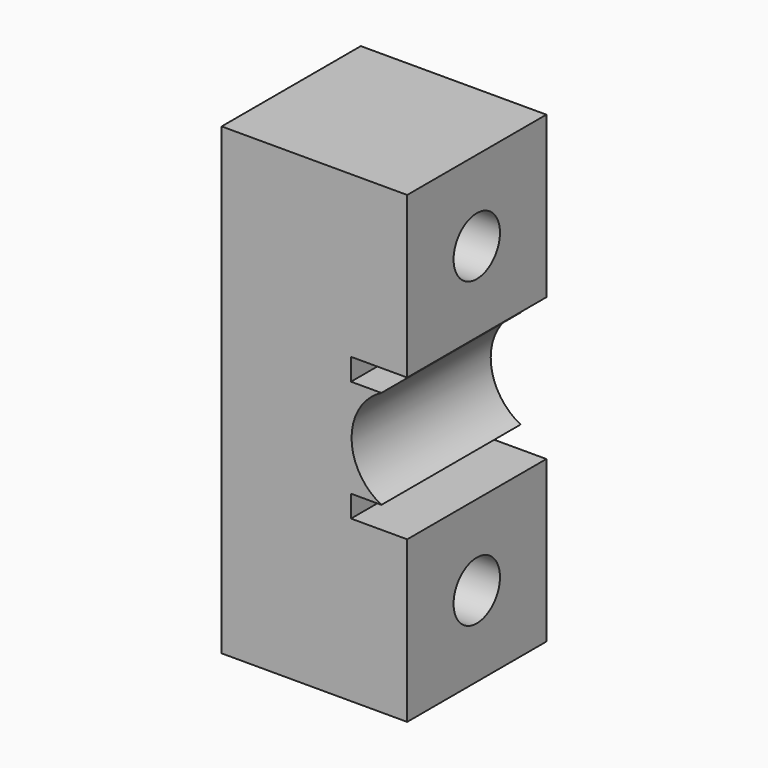
from build123d import *

# Parameters (mm, degrees)
F1_DEPTH = 9.525
F2_R     = 3.175
F3_DEPTH = 25.4


with BuildPart() as f1:
    # F0 (on Front) → F1 (new body, symmetric)
    with BuildSketch(Plane.XZ):
        with BuildLine():
            Line((4.007829, 5.3975), (4.007829, 7.7975))
            Line((4.007829, 7.7975), (10.16, 7.7975))
            Line((10.16, 7.7975), (10.16, 25.4))
            Line((10.16, 25.4), (-10.16, 25.4))
            Line((-10.16, 25.4), (-10.16, -25.4))
            Line((-10.16, -25.4), (10.16, -25.4))
            Line((10.16, -25.4), (10.16, -7.7975))
            Line((10.16, -7.7975), (4.007829, -7.7975))
            Line((4.007829, -7.7975), (4.007829, -5.3975))
            Line((4.007829, -5.3975), (7.334133, -5.3975))
            ThreePointArc((7.334133, -5.3975), (4.067502, 0.000618), (7.335229, 5.398074))
            Line((7.335229, 5.398074), (4.007829, 5.3975))
        make_face()
    extrude(amount=F1_DEPTH, both=True)

    # F2 (on face) → F3 (cut)
    with BuildSketch(Plane(origin=(-10.16, 0, 0), x_dir=(0, -1, 0), z_dir=(-1, 0, 0))):
        with Locations((0, 16.59875)):
            Circle(F2_R)
        with Locations((0, -16.59875)):
            Circle(F2_R)
    extrude(amount=-F3_DEPTH, mode=Mode.SUBTRACT)


solid = f1.part
